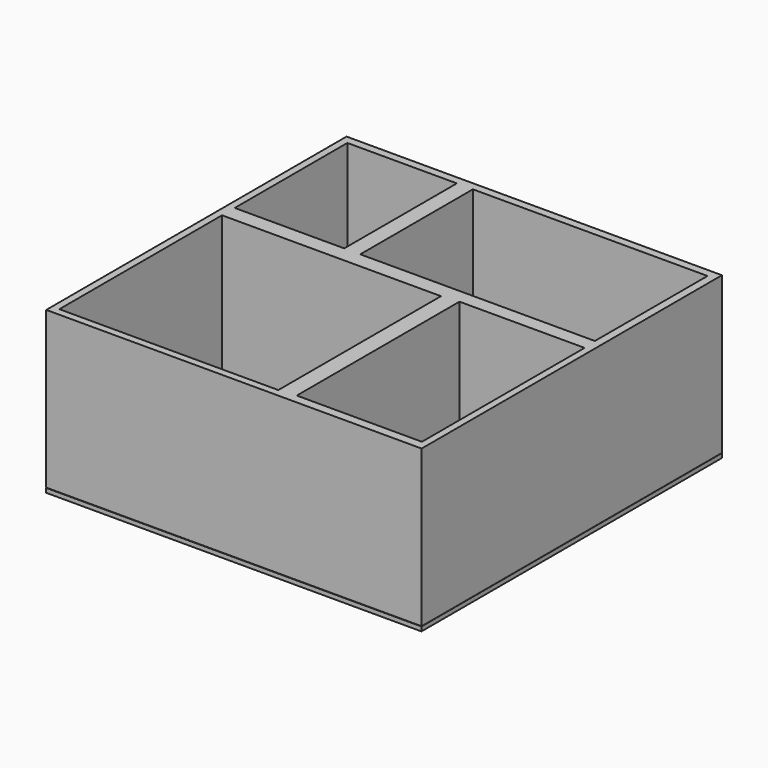
from build123d import *

# Parameters (mm, degrees)
F0_W     = 20
F0_H     = 25
F0_W_2   = 17.5
F0_H_2   = 22.5
F0_W_3   = 37.5
F0_W_4   = 35
F0_H_3   = 32.5
F0_W_5   = 22.5
F0_H_4   = 35
F1_DEPTH = 25
F2_W     = 60
F2_H     = 0.691662
F3_DEPTH = 39
F4_DEPTH = 21


with BuildPart() as f1:
    # F0 (on Top) → F1 (new body)
    with BuildSketch(Plane.XY):
        with Locations((-56.303288, 26.577459)):
            Rectangle(F0_W, F0_H)
        with Locations((-56.396089, 26.54361)):
            Rectangle(F0_W_2, F0_H_2, mode=Mode.SUBTRACT)
        Polygon((-6.303288, 39.077459), (-46.303288, 39.077459), (-46.303288, 14.077459), (-28.803288, 14.077459), (-6.303288, 14.077459), align=None)
        with Locations((-26.331019, 26.54361)):
            Rectangle(F0_W_3, F0_H_2, mode=Mode.SUBTRACT)
        Polygon((-28.803288, 14.077459), (-46.303288, 14.077459), (-66.303288, 14.077459), (-66.303288, -20.922541), (-28.803288, -20.922541), align=None)
        with Locations((-47.646089, -3.499608)):
            Rectangle(F0_W_4, F0_H_3, mode=Mode.SUBTRACT)
        with Locations((-17.553288, -3.422541)):
            Rectangle(F0_W_5, F0_H_4)
        with Locations((-17.418107, -3.217003)):
            Rectangle(F0_W, F0_H_3, mode=Mode.SUBTRACT)
    extrude(amount=F1_DEPTH)

    # F2 (on Front) → F3 (join)
    with BuildSketch(Plane.XZ):
        with Locations((-36.265093, -0.345831)):
            Rectangle(F2_W, F2_H)
    extrude(amount=-F3_DEPTH)

    # F3_face (on face) → F4 (join)
    with BuildSketch(Plane(origin=(-36.265093, 0, -0.345831), x_dir=(1, 0, 0), z_dir=(0, -1, 0))):
        Polygon((30, -0.345831), (30, 0.345831), (29.961805, 0.345831), (28.846987, 0.345831), (8.846987, 0.345831), (6.119005, 0.345831), (-28.880995, 0.345831), (-30, 0.345831), (-30, -0.345831), align=None)
    extrude(amount=F4_DEPTH)


solid = f1.part
